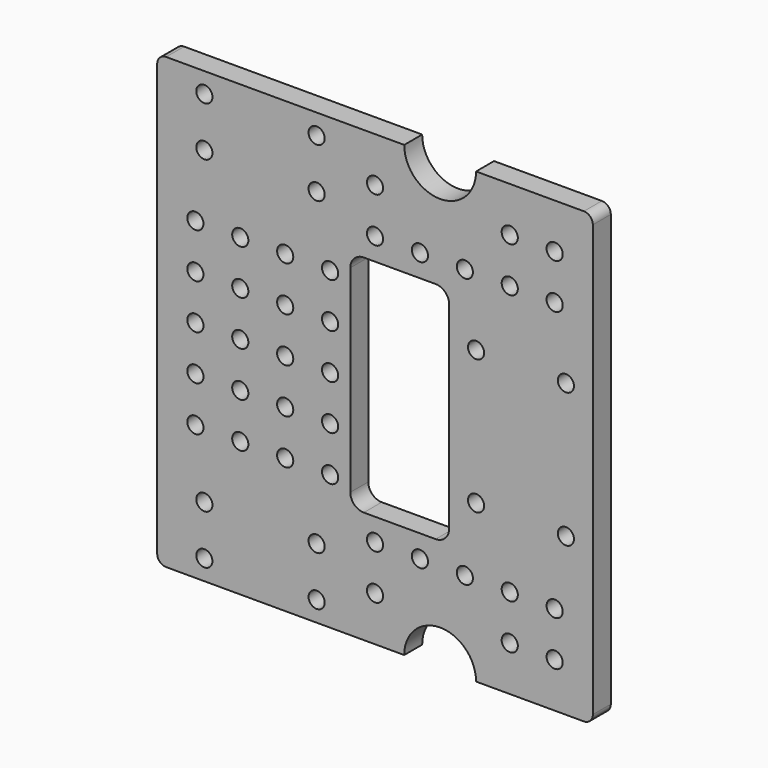
from build123d import *

# Parameters (mm, degrees)
CYLINDER011016_R         = 1.8
CYLINDER011016_DEPTH     = 100
ARRAY008_X_COUNT         = 2
ARRAY008_X_PITCH         = 25
ARRAY008_Y_COUNT         = 2
ARRAY008_Y_PITCH         = 11
ARRAY008_PLACEMENT_ANGLE = 90
ARRAY009_Z_COUNT         = 2
ARRAY009_Z_PITCH         = 80
CYLINDER011019_R         = 1.8
CYLINDER011019_DEPTH     = 10
ARRAY011_X_COUNT         = 2
ARRAY011_X_PITCH         = 30
ARRAY011_Y_COUNT         = 2
ARRAY011_Y_PITCH         = 20
ARRAY011_PITCH_ANGLE     = 90
ARRAY011_PLACEMENT_ANGLE = -90
BOX005_W                 = 22
BOX005_H                 = 10
BOX005_DEPTH             = 50
FILLET003_R              = 3
BOX004_W                 = 16
BOX004_H                 = 200
BOX004_DEPTH             = 50
CYLINDER011017_R         = 8
CYLINDER011017_DEPTH     = 200
SKETCH003_W              = 42.117567
SKETCH003_H              = 23.738708
SKETCH003_W_2            = 40.471139
SKETCH003_H_2            = 27.047569
SKETCH003_W_3            = 29.381024
SKETCH003_H_3            = 46.19655
SKETCH003_W_4            = 20.234924
SKETCH003_H_4            = 18.380661
SKETCH003_W_5            = 22.001269
SKETCH003_H_5            = 17.778789
EXTRUDE002_DEPTH         = 50
CYLINDER011018_R         = 1.8
CYLINDER011018_DEPTH     = 100
ARRAY012_X_COUNT         = 9
ARRAY012_X_PITCH         = 10
ARRAY012_Z_COUNT         = 9
ARRAY012_Z_PITCH         = 10
BOX006_W                 = 97
BOX006_H                 = 5
BOX006_DEPTH             = 100
FILLET004_R              = 2


with BuildPart() as bolt_hole_array_pair001:
    # Cylinder011016 → Cylinder011016 (new body)
    with BuildSketch(Plane.XY.offset(-50)):
        Circle(CYLINDER011016_R)
    extrude(amount=CYLINDER011016_DEPTH)

    # Array008 X: bolt hole array pair001 ×2


with BuildPart() as bolt_hole_array_pair001_1:
    add(bolt_hole_array_pair001.part)
    with Locations(*[(i * ARRAY008_X_PITCH, 0, 0) for i in range(1, ARRAY008_X_COUNT)]):
        add(bolt_hole_array_pair001.part)

    # Array008 Y: bolt hole array pair001 ×2


with BuildPart() as bolt_hole_array_pair001_2:
    add(bolt_hole_array_pair001_1.part)
    with Locations(*[(0, i * ARRAY008_Y_PITCH, 0) for i in range(1, ARRAY008_Y_COUNT)]):
        add(bolt_hole_array_pair001_1.part)


with BuildPart() as bolt_hole_array_pair001_3:
    # Array008 placement: moved
    add(bolt_hole_array_pair001_2.part.moved(Location((-12.5, 0, 4.5))).rotate(Axis((-12.5, 0, 4.5), (1, 0, 0)), ARRAY008_PLACEMENT_ANGLE))

    # Array009 Z: bolt hole array pair001 ×2


with BuildPart() as bolt_hole_array_pair001_4:
    add(bolt_hole_array_pair001_3.part)
    with Locations(*[(0, 0, i * ARRAY009_Z_PITCH) for i in range(1, ARRAY009_Z_COUNT)]):
        add(bolt_hole_array_pair001_3.part)


with BuildPart() as stepper_mount_hole_array001:
    # Cylinder011019 → Cylinder011019 (new body)
    with BuildSketch(Plane.XY):
        Circle(CYLINDER011019_R)
    extrude(amount=CYLINDER011019_DEPTH)

    # Array011 X: stepper mount hole array001 ×2


with BuildPart() as stepper_mount_hole_array001_1:
    add(stepper_mount_hole_array001.part)
    with Locations(*[(i * ARRAY011_X_PITCH, 0, 0) for i in range(1, ARRAY011_X_COUNT)]):
        add(stepper_mount_hole_array001.part)

    # Array011 Y: stepper mount hole array001 ×2


with BuildPart() as stepper_mount_hole_array001_2:
    add(stepper_mount_hole_array001_1.part)
    with Locations(*[(0, i * ARRAY011_Y_PITCH, 0) for i in range(1, ARRAY011_Y_COUNT)]):
        add(stepper_mount_hole_array001_1.part)


with BuildPart() as stepper_mount_hole_array001_3:
    # Array011 pitch: moved
    add(stepper_mount_hole_array001_2.part.rotate(Axis((0, 0, 0), (0, 1, 0)), ARRAY011_PITCH_ANGLE))


with BuildPart() as stepper_mount_hole_array001_4:
    # Array011 placement: moved
    add(stepper_mount_hole_array001_3.part.moved(Location((48, -31, 65))).rotate(Axis((48, -31, 65), (0, 0, 1)), ARRAY011_PLACEMENT_ANGLE))


with BuildPart() as belt_hole_fillet001:
    # Box005 → Box005 (new body)
    with BuildSketch(Plane(origin=(20, -40, 25), x_dir=(1, 0, 0), z_dir=(0, 0, 1))):
        with Locations((11, 5)):
            Rectangle(BOX005_W, BOX005_H)
    extrude(amount=BOX005_DEPTH)

    # Fillet003
    fillet003_edges = [belt_hole_fillet001.edges().sort_by_distance(p)[0] for p in [
        (20, -35, 75),
        (20, -35, 25),
        (42, -35, 75),
        (42, -35, 25),
    ]]
    fillet(fillet003_edges, radius=FILLET003_R)


with BuildPart() as shaft_extension_cube001:
    # Box004 → Box004 (new body)
    with BuildSketch(Plane(origin=(-8, -200, -50), x_dir=(1, 0, 0), z_dir=(0, 0, 1))):
        with Locations((8, 100)):
            Rectangle(BOX004_W, BOX004_H)
    extrude(amount=BOX004_DEPTH)


with BuildPart() as shaft_16mm_hole001:
    # Cylinder011017 → Cylinder011017 (new body)
    with BuildSketch(Plane.XZ):
        Circle(CYLINDER011017_R)
    extrude(amount=CYLINDER011017_DEPTH)

    # Fusion006: union shaft extension cube001
    add(shaft_extension_cube001.part)


with BuildPart() as shaft_16mm_hole001_1:
    # Fusion006 placement: moved
    add(shaft_16mm_hole001.part.moved(Location((40, -19, 0))))


with BuildPart() as part_mirroring002:
    # Part__Mirroring002: instance of shaft 16mm hole001
    add(shaft_16mm_hole001_1.part.mirror(Plane(origin=(0, 0, 50), x_dir=(0, 1, 0), z_dir=(0, 0, 1))))


with BuildPart() as general_holes_extrude001:
    # Sketch003 → Extrude002 (new body, symmetric)
    with BuildSketch(Plane.XZ):
        with Locations((-1.795196, 11.674214)):
            Rectangle(SKETCH003_W, SKETCH003_H)
        with Locations((-0.985158, 89.151065)):
            Rectangle(SKETCH003_W_2, SKETCH003_H_2)
        with Locations((57.017252, 49.302802)):
            Rectangle(SKETCH003_W_3, SKETCH003_H_3)
        with Locations((39.542156, 93.364433)):
            Rectangle(SKETCH003_W_4, SKETCH003_H_4)
        with Locations((39.547934, 5.882593)):
            Rectangle(SKETCH003_W_5, SKETCH003_H_5)
    extrude(amount=EXTRUDE002_DEPTH, both=True)


with BuildPart() as hole_fusion001:
    # Cylinder011018 → Cylinder011018 (new body)
    with BuildSketch(Plane.XZ.offset(-50)):
        Circle(CYLINDER011018_R)
    extrude(amount=CYLINDER011018_DEPTH)

    # Array012 X: hole fusion001 ×9


with BuildPart() as hole_fusion001_1:
    add(hole_fusion001.part)
    with Locations(*[(i * ARRAY012_X_PITCH, 0, 0) for i in range(1, ARRAY012_X_COUNT)]):
        add(hole_fusion001.part)

    # Array012 Z: hole fusion001 ×9


with BuildPart() as hole_fusion001_2:
    add(hole_fusion001_1.part)
    with Locations(*[(0, 0, i * ARRAY012_Z_PITCH) for i in range(1, ARRAY012_Z_COUNT)]):
        add(hole_fusion001_1.part)


with BuildPart() as hole_fusion001_3:
    # Array012 placement: moved
    add(hole_fusion001_2.part.moved(Location((-14.5, 0, 10))))

    # Cut023015009014: cut general holes extrude001
    add(general_holes_extrude001.part, mode=Mode.SUBTRACT)

    # Fusion007: union bolt hole array pair001, stepper mount hole array001, belt hole fillet001, Part__Mirroring002, shaft 16mm hole001
    add(bolt_hole_array_pair001_4.part)
    add(stepper_mount_hole_array001_4.part)
    add(belt_hole_fillet001.part)
    add(part_mirroring002.part)
    add(shaft_16mm_hole001_1.part)


with BuildPart() as side_plate_cut001:
    # Box006 → Box006 (new body)
    with BuildSketch(Plane(origin=(-23, -36, 0), x_dir=(1, 0, 0), z_dir=(0, 0, 1))):
        with Locations((48.5, 2.5)):
            Rectangle(BOX006_W, BOX006_H)
    extrude(amount=BOX006_DEPTH)

    # Fillet004
    fillet004_edges = [side_plate_cut001.edges().sort_by_distance(p)[0] for p in [
        (-23, -33.5, 100),
        (-23, -33.5, 0),
        (74, -33.5, 100),
        (74, -33.5, 0),
    ]]
    fillet(fillet004_edges, radius=FILLET004_R)

    # Cut023015009012: cut hole fusion001
    add(hole_fusion001_3.part, mode=Mode.SUBTRACT)


solid = side_plate_cut001.part
